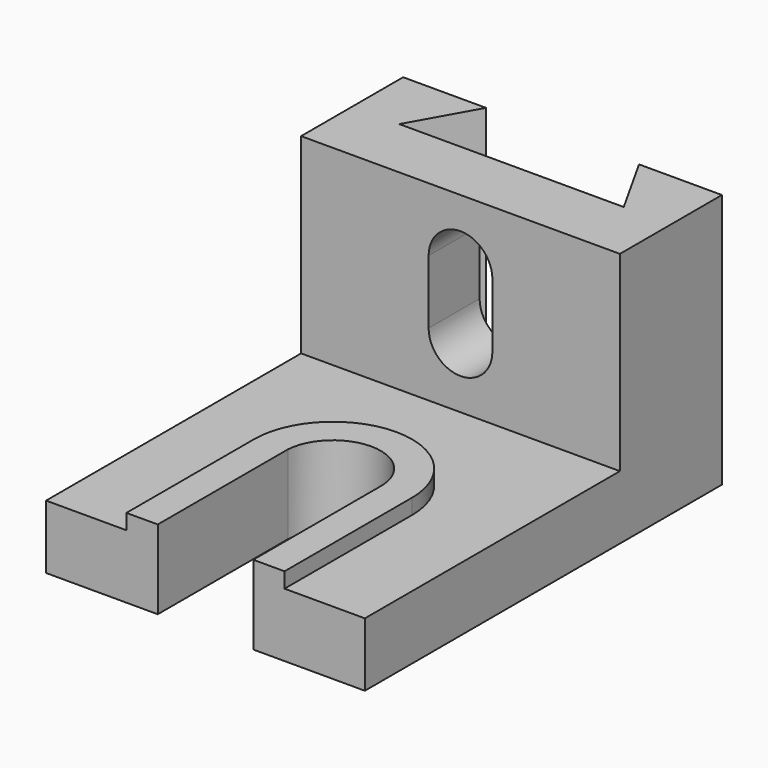
from build123d import *

# Parameters (mm, degrees)
F0_W      = 63.5
F0_H      = 50.8
F1_DEPTH  = 88.9
F2_W      = 63.5
F2_H      = 38.1
F3_DEPTH  = 63.501
F5_DEPTH  = 12.701
F7_DEPTH  = 3.048
F9_DEPTH  = 25.401
F11_DEPTH = 50.801


with BuildPart() as f1:
    # F0 (on Front) → F1 (new body)
    with BuildSketch(Plane.XZ):
        Rectangle(F0_W, F0_H)
    extrude(amount=F1_DEPTH)

    # F2 (on face) → F3 (cut, through all)
    with BuildSketch(Plane.YZ.offset(31.75)):
        with Locations((-57.15, 6.35)):
            Rectangle(F2_W, F2_H)
    extrude(amount=-F3_DEPTH, mode=Mode.SUBTRACT)

    # F4 (on face) → F5 (cut, through all)
    with BuildSketch(Plane.XY.offset(-12.7)):
        with BuildLine():
            Line((0, -88.9), (9.5206265251, -88.9))
            Line((9.5206265251, -88.9), (9.5206265251, -57.4386097176))
            ThreePointArc((9.5206265251, -57.4386097176), (0.4771367105, -47.6369581332), (-9.5017243728, -56.4845235209))
            Line((-9.5017243728, -56.4845235209), (-9.5017243728, -88.9))
            Line((-9.5017243728, -88.9), (0, -88.9))
        make_face()
    extrude(amount=-F5_DEPTH, mode=Mode.SUBTRACT)

    # F6 (on face) → F7 (join)
    with BuildSketch(Plane.XY.offset(-12.7)):
        with BuildLine():
            Line((15.748, -88.9), (15.748, -57.15))
            ThreePointArc((15.748, -57.15), (0, -41.402), (-15.748, -57.15))
            Line((-15.748, -57.15), (-15.748, -88.9))
            Line((-15.748, -88.9), (-9.5017243728, -88.9))
            Line((-9.5017243728, -88.9), (-9.5017243728, -56.4845235209))
            ThreePointArc((-9.5017243728, -56.4845235209), (0.4771367105, -47.6369581332), (9.5206265251, -57.4386097176))
            Line((9.5206265251, -57.4386097176), (9.5206265251, -88.9))
            Line((9.5206265251, -88.9), (15.748, -88.9))
        make_face()
    extrude(amount=F7_DEPTH)

    # F8 (on face) → F9 (cut, through all)
    with BuildSketch(Plane.XZ.offset(25.4)):
        with BuildLine():
            ThreePointArc((6.3459234426, 12.927498704), (4.4089615121, 17.2698532126), (0, 19.05))
            Line((0, 19.05), (0, 12.7))
            Line((0, 12.7), (-6.35, 12.7))
            Line((-6.35, 12.7), (-6.35, 0))
            ThreePointArc((-6.35, 0), (0, -6.35), (6.35, 0))
            ThreePointArc((6.35, 0), (6.3499999211, 0.001001282), (6.3499996842, 0.002002564))
            Line((6.3499996842, 0.002002564), (6.3459234426, 12.927498704))
        make_face()
        with BuildLine():
            Line((0, 12.7), (0, 19.05))
            ThreePointArc((0, 19.05), (-4.4901280605, 17.1901280605), (-6.35, 12.7))
            Line((-6.35, 12.7), (0, 12.7))
        make_face()
    extrude(amount=-F9_DEPTH, mode=Mode.SUBTRACT)

    # F10 (on face) → F11 (cut, through all)
    with BuildSketch(Plane.XY.offset(25.4)):
        Polygon((0, -12.7), (0, 0), (-15.24, 0), (-22.352, -12.7), align=None)
        Polygon((15.24, 0), (0, 0), (0, -12.7), (22.352, -12.7), align=None)
    extrude(amount=-F11_DEPTH, mode=Mode.SUBTRACT)


solid = f1.part
